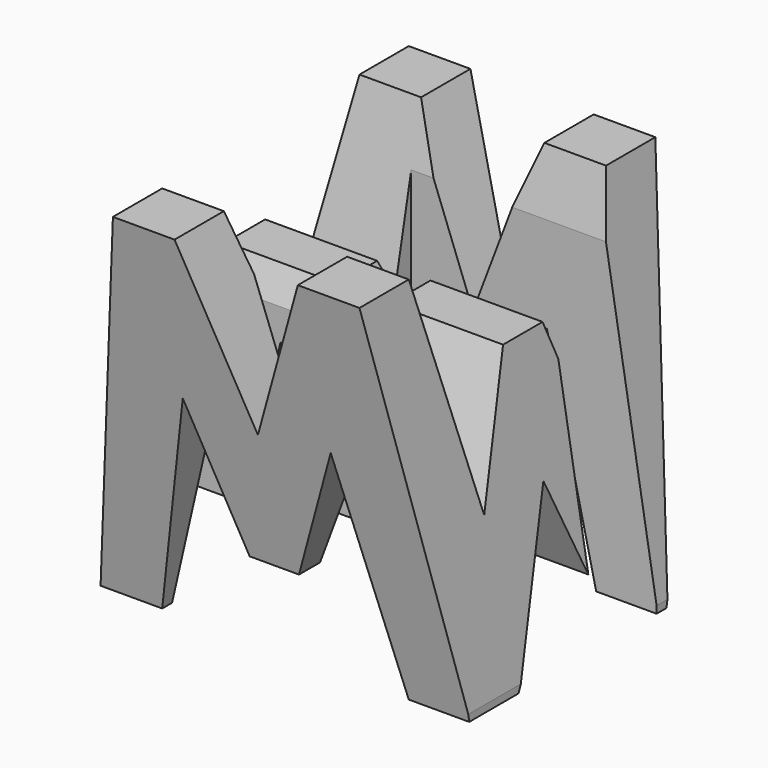
from build123d import *

# Parameters (mm, degrees)
F0_W      = 37.977102
F0_H      = 38.1
F1_DEPTH  = 38.1
F6_DEPTH  = 38.1
F8_DEPTH  = 38.1
F9_W      = 25.4
F9_H      = 7.62
F10_DEPTH = 38.1


with BuildPart() as f1:
    # F0 (on Front) → F1 (new body)
    with BuildSketch(Plane.XZ):
        with Locations((18.988551, 19.05)):
            Rectangle(F0_W, F0_H)
    extrude(amount=F1_DEPTH)

    # F5 (on offset) → F6 (cut)
    with BuildSketch(Plane.YZ.offset(38.1)):
        Polygon((-31.75, 0), (-38.1, 38.1), (-38.1, 0), align=None)
        Polygon((-11.43, 13.831229), (-6.35, 38.1), (-31.75, 38.1), (-26.67, 15.875), (-21.59, 28.575), (-16.51, 28.575), align=None)
        Polygon((-19.05, 0), (-12.7, 0), (-19.05, 15.875), (-25.4, 0), align=None)
        Polygon((0, 0), (0, 38.1), (-6.35, 0), align=None)
    extrude(amount=-F6_DEPTH, mode=Mode.SUBTRACT)

    # F7 (on offset) → F8 (cut)
    with BuildSketch(Plane.XZ.offset(38.1)):
        Polygon((11.43, 22.225), (6.35, 0), (31.75, 0), (26.67, 22.225), (21.59, 8.616461), (16.51, 8.616461), align=None)
        Polygon((25.4, 38.1), (12.7, 38.1), (19.05, 21.316461), align=None)
        Polygon((0, 38.1), (0, 0), (6.35, 38.1), align=None)
        Polygon((31.75, 38.1), (38.1, 0), (38.1, 38.1), align=None)
    extrude(amount=-F8_DEPTH, mode=Mode.SUBTRACT)

    # F9 (on offset) → F10 (cut)
    with BuildSketch(Plane.XY.offset(38.1)):
        with Locations((25.4, -11.43)):
            Rectangle(F9_W, F9_H)
        with Locations((12.7, -26.67)):
            Rectangle(F9_W, F9_H)
    extrude(amount=-F10_DEPTH, mode=Mode.SUBTRACT)


solid = f1.part
